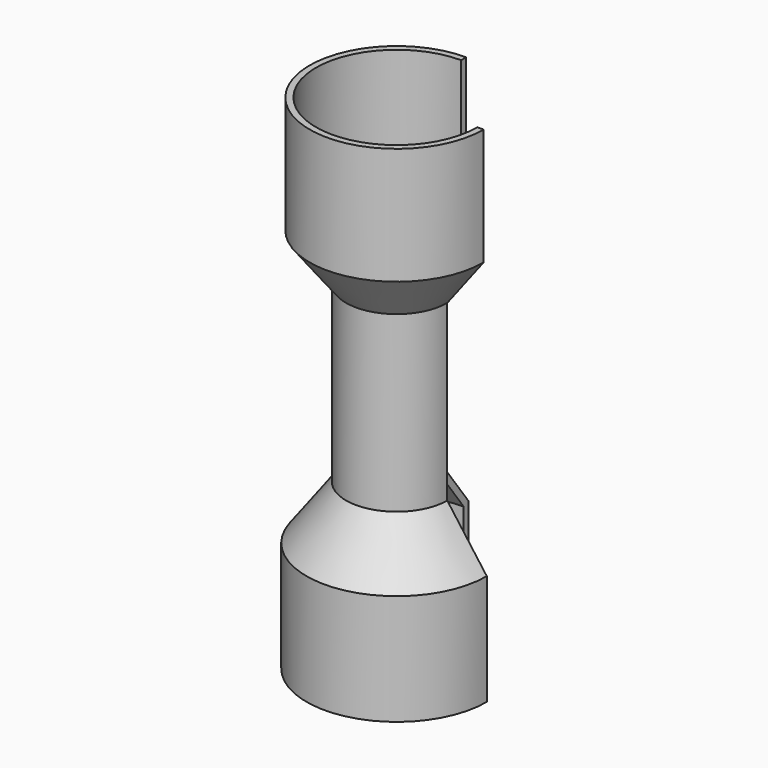
from build123d import *

# Parameters (mm, degrees)
F6_ANGLE = 270
F7_T     = -2


with BuildPart() as f6:
    # F5 (on Right) → F6 (revolve)
    with BuildSketch(Plane.YZ):
        Polygon((0, 0), (28.5, 0), (28.5, 35), (16, 52), (16, 107), (27.5, 122), (27.5, 159), (0, 159), align=None)
    revolve(axis=Axis((0, 0, 79.5), (0, 0, 1)), revolution_arc=F6_ANGLE)

    # F7
    f7_openings = [f6.faces().sort_by_distance(p)[0] for p in [
        (0, 12.000093, 78.927374),
        (-3.890454, -3.890454, 159),
        (12.000093, 0, 78.927374),
        (-4.031925, -4.031925, 0),
    ]]
    offset(amount=F7_T, openings=f7_openings, kind=Kind.INTERSECTION)


solid = f6.part
